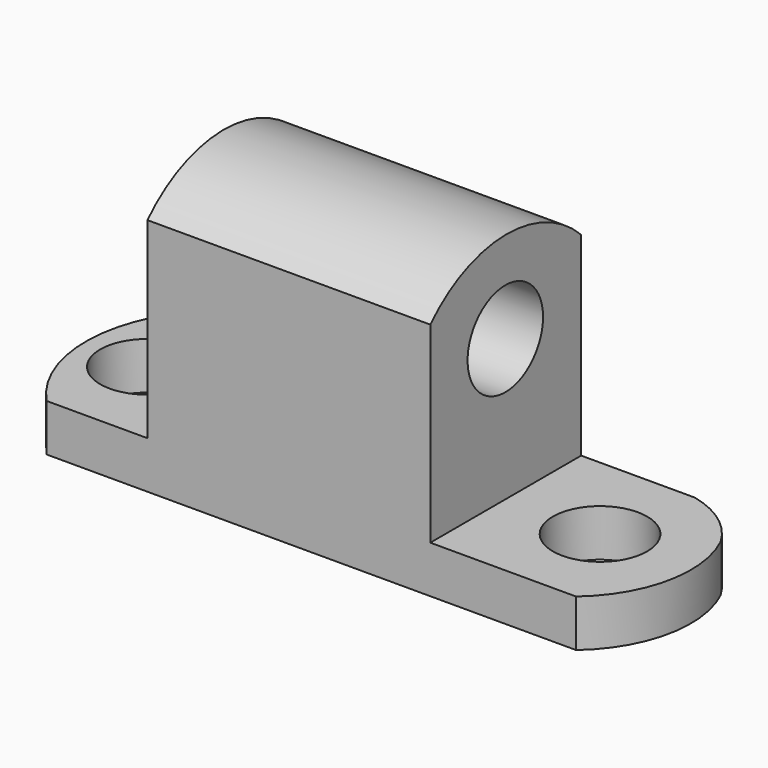
from build123d import *

# Parameters (mm, degrees)
F0_W      = 82.55
F0_H      = 38.1
F1_DEPTH  = 25.4
F2_W      = 25.4
F2_H      = 31.75
F3_DEPTH  = 25.4
F4_W      = 19.05
F4_H      = 31.75
F5_DEPTH  = 25.4
F6_R      = 6.35
F7_DEPTH  = 25.4
F8_R      = 6.35
F9_DEPTH  = 25.4
F11_DEPTH = 38.1
F12_R     = 6.35
F13_DEPTH = 50.8
F15_DEPTH = 50.8
F17_DEPTH = 50.8
F19_DEPTH = 25.4


with BuildPart() as f1:
    # F0 (on Front) → F1 (new body)
    with BuildSketch(Plane.XZ):
        with Locations((41.275, 19.05)):
            Rectangle(F0_W, F0_H)
    extrude(amount=F1_DEPTH)

    # F2 (on face) → F3 (cut)
    with BuildSketch(Plane.XZ.offset(25.4)):
        with Locations((69.85, 22.225)):
            Rectangle(F2_W, F2_H)
    extrude(amount=-F3_DEPTH, mode=Mode.SUBTRACT)

    # F4 (on face) → F5 (cut)
    with BuildSketch(Plane.XZ.offset(25.4)):
        with Locations((9.525, 22.225)):
            Rectangle(F4_W, F4_H)
    extrude(amount=-F5_DEPTH, mode=Mode.SUBTRACT)

    # F6 (on face) → F7 (cut)
    with BuildSketch(Plane.XY.offset(6.35)):
        with Locations((69.85, -12.7)):
            Circle(F6_R)
    extrude(amount=-F7_DEPTH, mode=Mode.SUBTRACT)

    # F8 (on face) → F9 (cut)
    with BuildSketch(Plane.XY.offset(6.35)):
        with Locations((8.8900124169, -12.7158843127)):
            Circle(F8_R)
    extrude(amount=-F9_DEPTH, mode=Mode.SUBTRACT)

    # F10 (on face) → F11 (cut)
    with BuildSketch(Plane(origin=(19.05, 0, 0), x_dir=(0, -1, 0), z_dir=(-1, 0, 0))):
        with BuildLine():
            ThreePointArc((0, 32.5376726687), (12.769661319, 37.7082569413), (25.4, 32.2060994804))
            Line((25.4, 32.2060994804), (25.4, 38.1))
            Line((25.4, 38.1), (0, 38.1))
            Line((0, 38.1), (0, 32.5376726687))
        make_face()
    extrude(amount=-F11_DEPTH, mode=Mode.SUBTRACT)

    # F12 (on face) → F13 (cut)
    with BuildSketch(Plane.YZ.offset(57.15)):
        with Locations((-12.769661319, 25.3998726321)):
            Circle(F12_R)
    extrude(amount=-F13_DEPTH, mode=Mode.SUBTRACT)

    # F14 (on face) → F15 (cut)
    with BuildSketch(Plane.XY.offset(6.35)):
        with BuildLine():
            ThreePointArc((5.4768570699, -25.4), (0.241233284, -12.8565406161), (4.6525248326, 0))
            Line((4.6525248326, 0), (0, 0))
            Line((0, 0), (0, -25.4))
            Line((0, -25.4), (5.4768570699, -25.4))
        make_face()
    extrude(amount=-F15_DEPTH, mode=Mode.SUBTRACT)

    # F16 (on face) → F17 (cut)
    with BuildSketch(Plane.XY.offset(6.35)):
        with BuildLine():
            ThreePointArc((75.7511779666, 0), (82.4170329692, -12.4504834206), (76.7815932631, -25.4))
            Line((76.7815932631, -25.4), (82.55, -25.4))
            Line((82.55, -25.4), (82.55, 0))
            Line((82.55, 0), (75.7511779666, 0))
        make_face()
    extrude(amount=-F17_DEPTH, mode=Mode.SUBTRACT)

    # F18 (on face) → F19 (cut)
    with BuildSketch(Plane.XY.offset(6.35)):
        with BuildLine():
            ThreePointArc((72.4261626601, 0), (77.2939859852, -2.2026454539), (80.8707558382, -6.1717849498))
            ThreePointArc((80.8707558382, -6.1717849498), (78.6988634902, -2.7641270855), (75.7511779666, 0))
            Line((75.7511779666, 0), (72.4261626601, 0))
        make_face()
    extrude(amount=-F19_DEPTH, mode=Mode.SUBTRACT)


solid = f1.part
